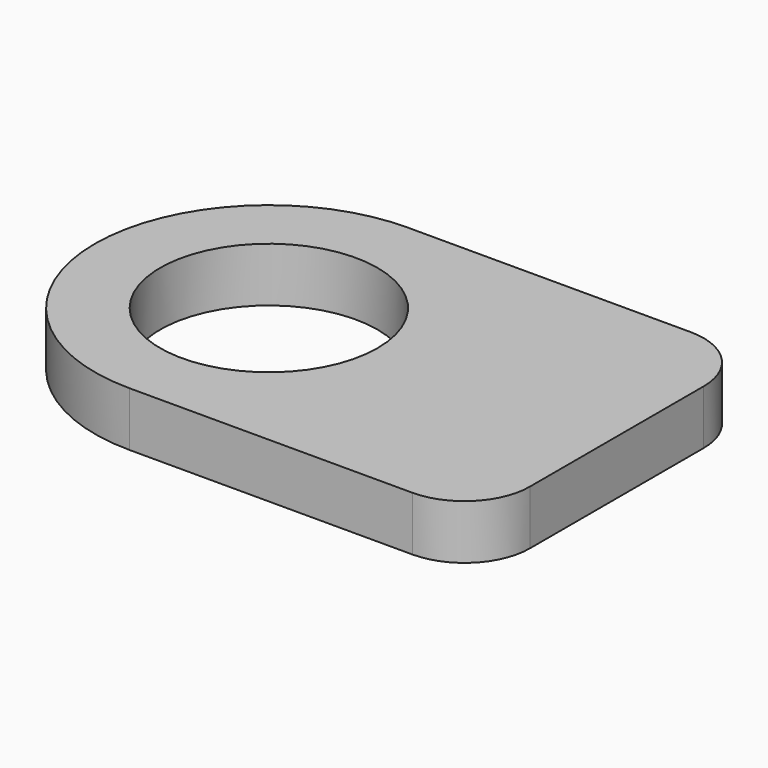
from build123d import *

# Parameters (mm, degrees)
F0_R     = 50
F1_DEPTH = 25


with BuildPart() as f1:
    # F0 (on Top) → F1 (new body)
    with BuildSketch(Plane.XY):
        with BuildLine():
            Line((130, 80), (0, 80))
            ThreePointArc((0, 80), (-80, 0), (0, -80))
            Line((0, -80), (130, -80))
            ThreePointArc((130, -80), (151.213203, -71.213203), (160, -50))
            Line((160, -50), (160, 50))
            ThreePointArc((160, 50), (151.213203, 71.213203), (130, 80))
        make_face()
        Circle(F0_R, mode=Mode.SUBTRACT)
    extrude(amount=F1_DEPTH)


solid = f1.part
